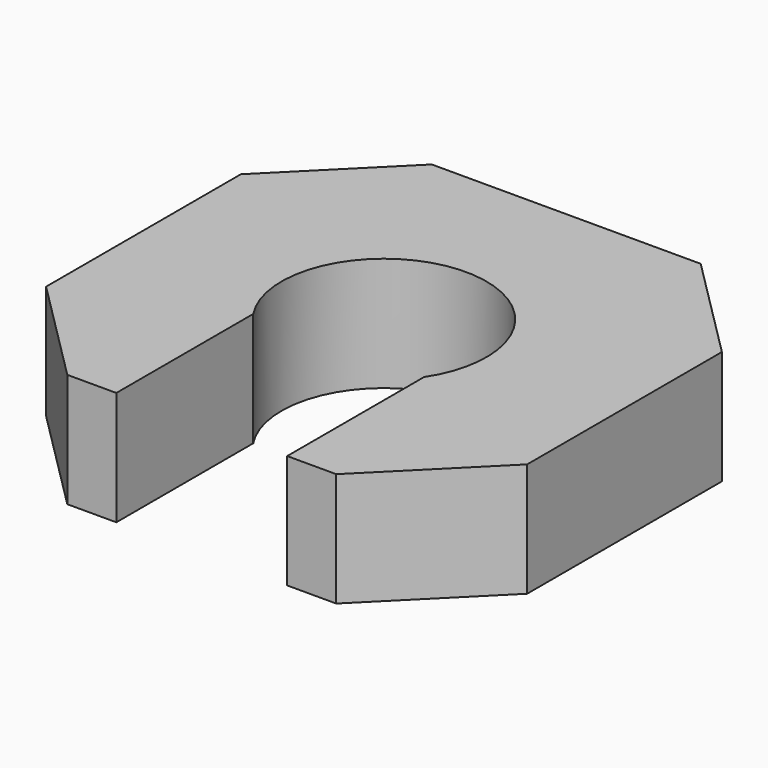
from build123d import *

# Parameters (mm, degrees)
PAD_DEPTH = 2


with BuildPart() as part:
    # Sketch → Pad (new body)
    with BuildSketch(Plane.XY):
        with BuildLine():
            Line((-2.360903, 4), (2.360903, 4))
            Line((2.360903, 4), (4.223674, 2.13723))
            Line((4.223674, 2.13723), (4.223674, -2.13723))
            Line((2.360903, -4), (4.223674, -2.13723))
            Line((2.360903, -4), (1.5, -4))
            Line((1.5, -0.994987), (1.5, -4))
            ThreePointArc((1.5, -0.994987), (0, 1.8), (-1.5, -0.994987))
            Line((-1.5, -0.994987), (-1.5, -4))
            Line((-1.5, -4), (-2.360903, -4))
            Line((-4.223674, -2.13723), (-2.360903, -4))
            Line((-4.223674, -2.13723), (-4.223674, 2.13723))
            Line((-4.223674, 2.13723), (-2.360903, 4))
        make_face()
    extrude(amount=PAD_DEPTH)


solid = part.part
